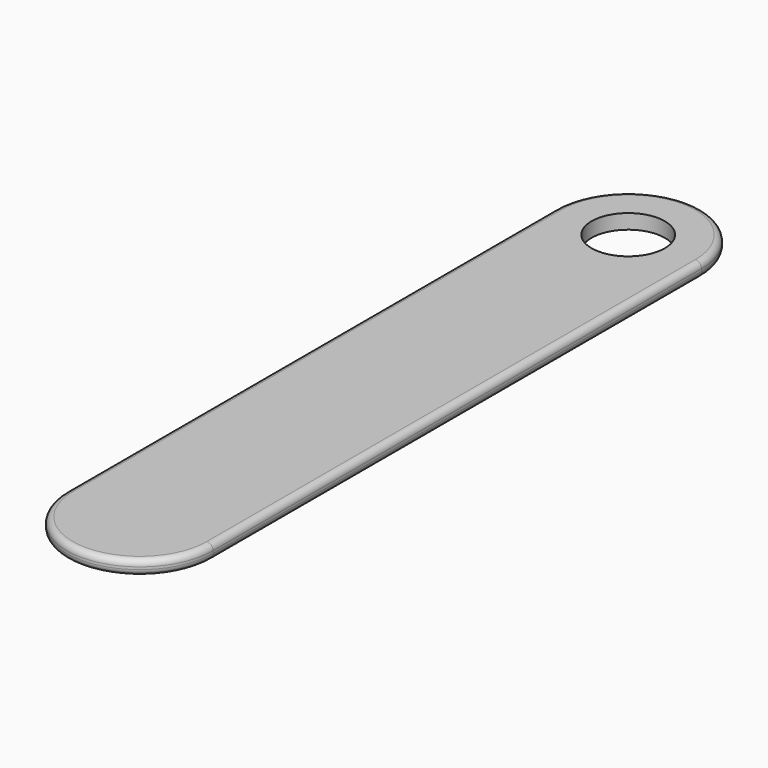
from build123d import *

# Parameters (mm, degrees)
SKETCH_R  = 3
PAD_DEPTH = 1.2
FILLET_R  = 0.5


with BuildPart() as part:
    # Sketch → Pad (new body)
    with BuildSketch(Plane.XY):
        with BuildLine():
            ThreePointArc((6, 25), (0, 31), (-6, 25))
            Line((-6, 25), (-6, -25))
            ThreePointArc((-6, -25), (0, -31), (6, -25))
            Line((6, -25), (6, 25))
        make_face()
        with Locations((0, 25)):
            Circle(SKETCH_R, mode=Mode.SUBTRACT)
    extrude(amount=PAD_DEPTH)

    # Fillet
    fillet_edges = [part.edges().sort_by_distance(p)[0] for p in [
        (6, 0, 0),
        (6, 0, 1.2),
    ]]
    fillet(fillet_edges, radius=FILLET_R)


solid = part.part
